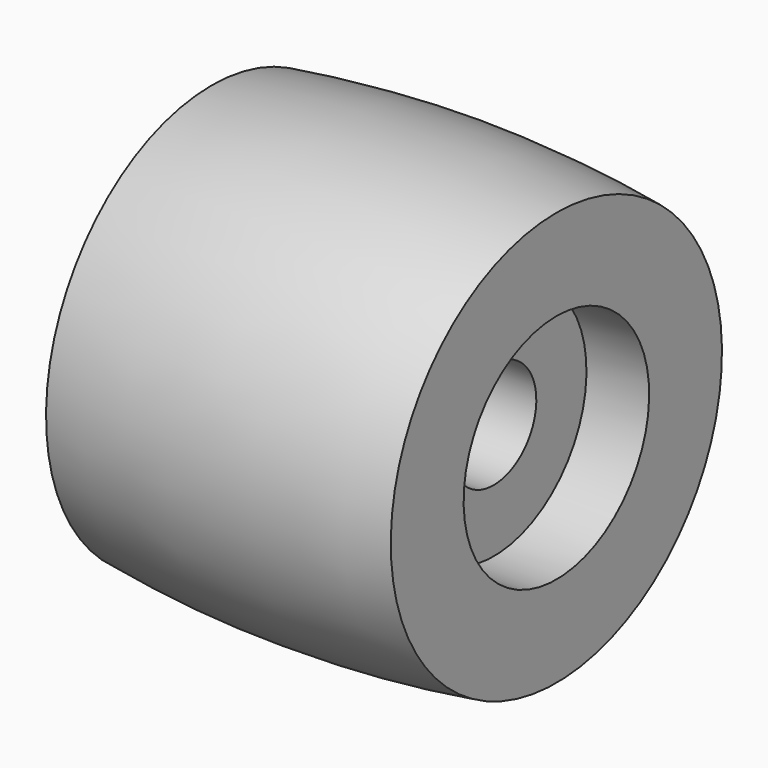
from build123d import *


with BuildPart() as f1:
    # F0 (on Front) → F1 (revolve)
    with BuildSketch(Plane.XZ):
        with BuildLine():
            Line((-27.5, 33.019986), (-27.5, 14.75))
            Line((-27.5, 14.75), (-17.5, 14.75))
            Line((-17.5, 14.75), (-17.5, 8.5))
            Line((-17.5, 8.5), (17.5, 8.5))
            Line((17.5, 8.5), (17.5, 18.5))
            Line((17.5, 18.5), (27.5, 18.5))
            Line((27.5, 18.5), (27.5, 33.019986))
            ThreePointArc((27.5, 33.019986), (0, 34.99436), (-27.5, 33.019986))
        make_face()
    revolve(axis=Axis((0, 0, 0), (1, 0, 0)))


solid = f1.part
